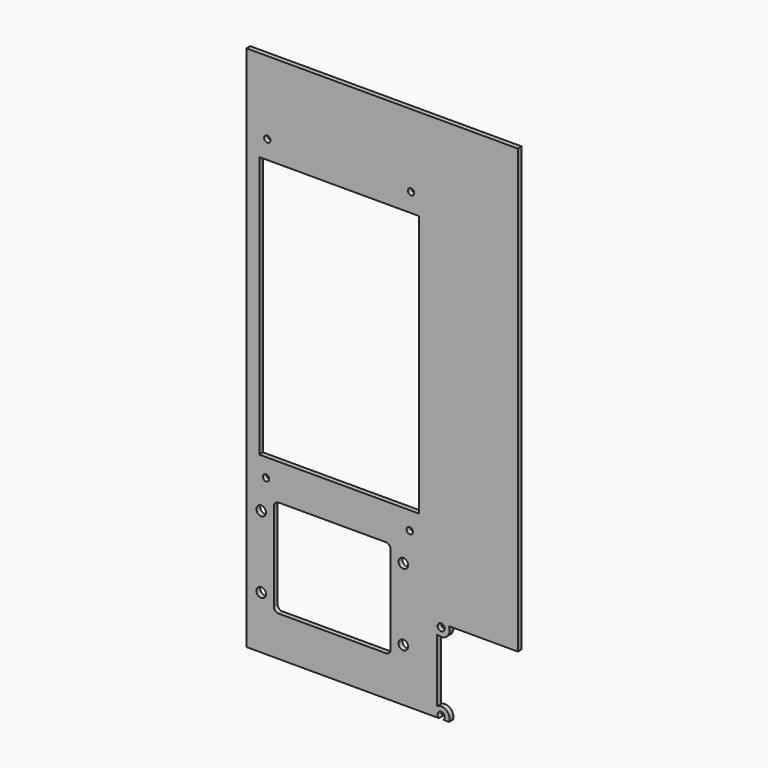
from build123d import *

# Parameters (mm, degrees)
F0_R     = 3
F0_R_2   = 2
F0_R_3   = 2.25
F0_W     = 100
F0_H     = 164
F1_DEPTH = 3


with BuildPart() as f1:
    # F0 (on Front) → F1 (new body)
    with BuildSketch(Plane.XZ):
        with BuildLine():
            Line((92.861236, -19.580245), (96.408761, -19.580245))
            ThreePointArc((96.408761, -19.580245), (94.879976, -13.830354), (88.963774, -13.200293))
            Line((88.963774, -13.200293), (88.963774, 26.316618))
            ThreePointArc((88.963774, 26.316618), (95.075641, 27.123057), (96.207192, 33.183161))
            Line((96.207192, 33.183161), (139.475139, 33.183161))
            Line((139.475139, 33.183161), (139.475139, 310.419755))
            Line((139.475139, 310.419755), (-30.524861, 310.419755))
            Line((-30.524861, 310.419755), (-30.524861, -19.580245))
            Line((-30.524861, -19.580245), (90.066312, -19.580245))
            ThreePointArc((90.066312, -19.580245), (90.484435, -15.791155), (93.713774, -17.816839))
            ThreePointArc((93.713774, -17.816839), (93.489458, -18.796178), (92.861236, -19.580245))
        make_face()
        with Locations((-21.223033, 13.519755)):
            Circle(F0_R, mode=Mode.SUBTRACT)
        with Locations((-21.223033, 58.519755)):
            Circle(F0_R, mode=Mode.SUBTRACT)
        with BuildLine():
            ThreePointArc((-13.323033, 63.619755), (-12.444354, 65.741075), (-10.323033, 66.619755))
            Line((-10.323033, 66.619755), (23.276967, 66.619755))
            Line((23.276967, 66.619755), (56.876967, 66.619755))
            ThreePointArc((56.876967, 66.619755), (58.998287, 65.741075), (59.876967, 63.619755))
            Line((59.876967, 63.619755), (59.876967, 36.019755))
            Line((59.876967, 36.019755), (59.876967, 8.419755))
            ThreePointArc((59.876967, 8.419755), (58.998287, 6.298435), (56.876967, 5.419755))
            Line((56.876967, 5.419755), (23.276967, 5.419755))
            Line((23.276967, 5.419755), (-10.323033, 5.419755))
            ThreePointArc((-10.323033, 5.419755), (-12.444354, 6.298435), (-13.323033, 8.419755))
            Line((-13.323033, 8.419755), (-13.323033, 36.019755))
            Line((-13.323033, 36.019755), (-13.323033, 63.619755))
        make_face(mode=Mode.SUBTRACT)
        with Locations((-18.186442, 77.624232)):
            Circle(F0_R_2, mode=Mode.SUBTRACT)
        with Locations((67.776967, 13.519755)):
            Circle(F0_R, mode=Mode.SUBTRACT)
        with Locations((67.776967, 58.519755)):
            Circle(F0_R, mode=Mode.SUBTRACT)
        with Locations((91.463774, 30.933161)):
            Circle(F0_R_3, mode=Mode.SUBTRACT)
        with Locations((71.813558, 77.82982)):
            Circle(F0_R_2, mode=Mode.SUBTRACT)
        with Locations((27.595126, 171.124232)):
            Rectangle(F0_W, F0_H, mode=Mode.SUBTRACT)
        with Locations((-17.404874, 264.624232)):
            Circle(F0_R_2, mode=Mode.SUBTRACT)
        with Locations((72.595126, 264.82982)):
            Circle(F0_R_2, mode=Mode.SUBTRACT)
    extrude(amount=F1_DEPTH)


solid = f1.part
